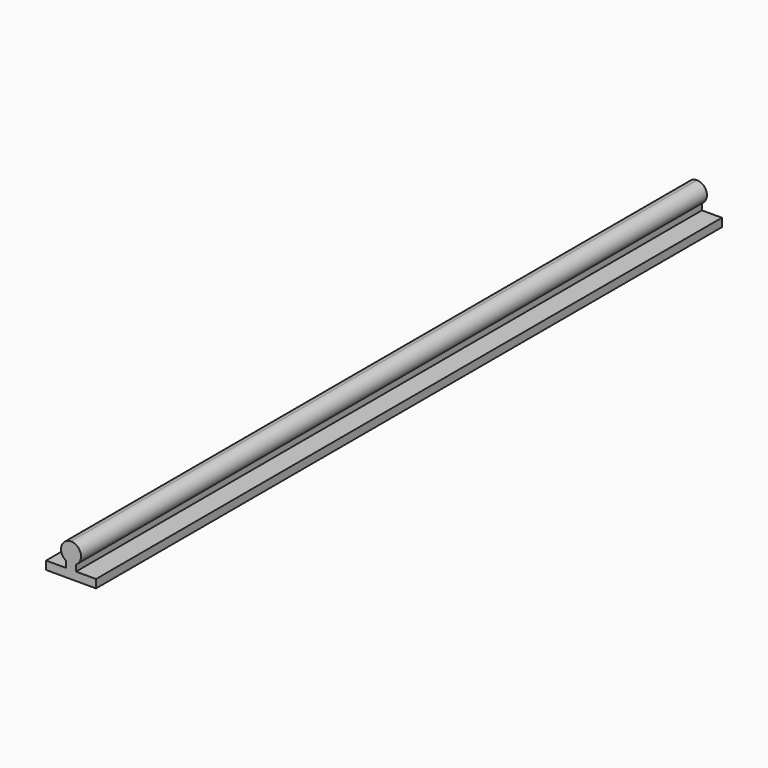
from build123d import *

# Parameters (mm, degrees)
F1_DEPTH = 470


with BuildPart() as f1:
    # F0 (on Front) → F1 (new body)
    with BuildSketch(Plane.XZ):
        with BuildLine():
            Line((-15, 0), (0, 0))
            Line((0, 0), (15, 0))
            Line((15, 0), (15, 5))
            Line((15, 5), (3, 5))
            Line((3, 5), (3, 8.803848))
            ThreePointArc((3, 8.803848), (5.795555, 15.552914), (0, 20))
            ThreePointArc((0, 20), (-5.795555, 15.552914), (-3, 8.803848))
            Line((-3, 8.803848), (-3, 5))
            Line((-3, 5), (-15, 5))
            Line((-15, 5), (-15, 0))
        make_face()
    extrude(amount=F1_DEPTH)


solid = f1.part
